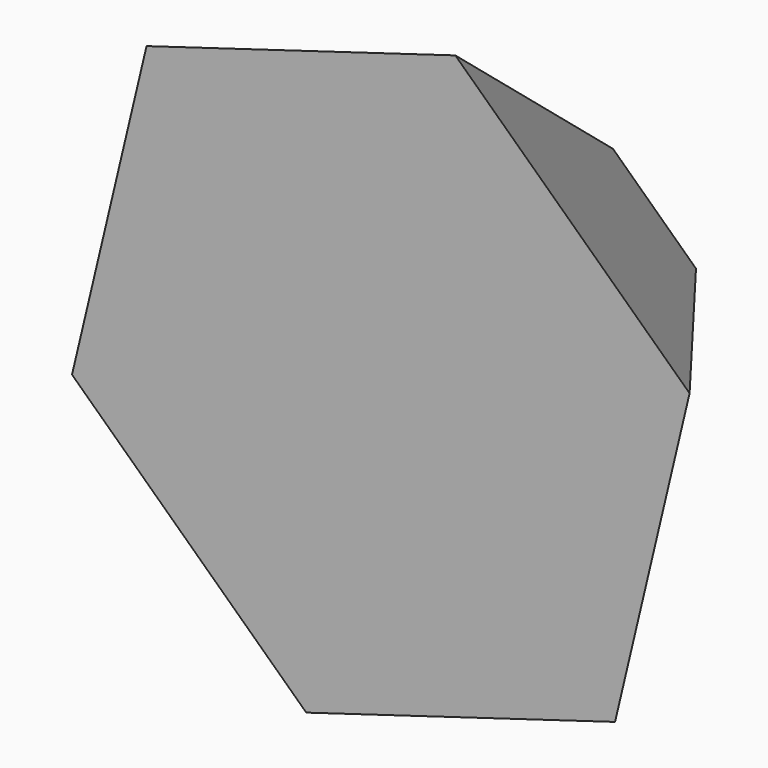
from build123d import *


with BuildPart() as f3:
    # F2 (on offset) → F3 section 0
    with BuildSketch(Plane.XZ.offset(-33.02)):
        Polygon((14.0515133994, 4.1962250321), (3.3917192219, 14.2670800815), (-10.6597941775, 10.0708550494), (-14.0515133994, -4.1962250321), (-3.3917192219, -14.2670800815), (10.6597941775, -10.0708550494), align=None)
    # F0 (on Front) → F3 section 1
    with BuildSketch(Plane.XZ):
        Polygon((39.6453004225, 11.8393369674), (9.5694836335, 40.2535057903), (-30.075816789, 28.4141688228), (-39.6453004225, -11.8393369674), (-9.5694836335, -40.2535057903), (30.075816789, -28.4141688228), align=None)
    loft()


solid = f3.part
